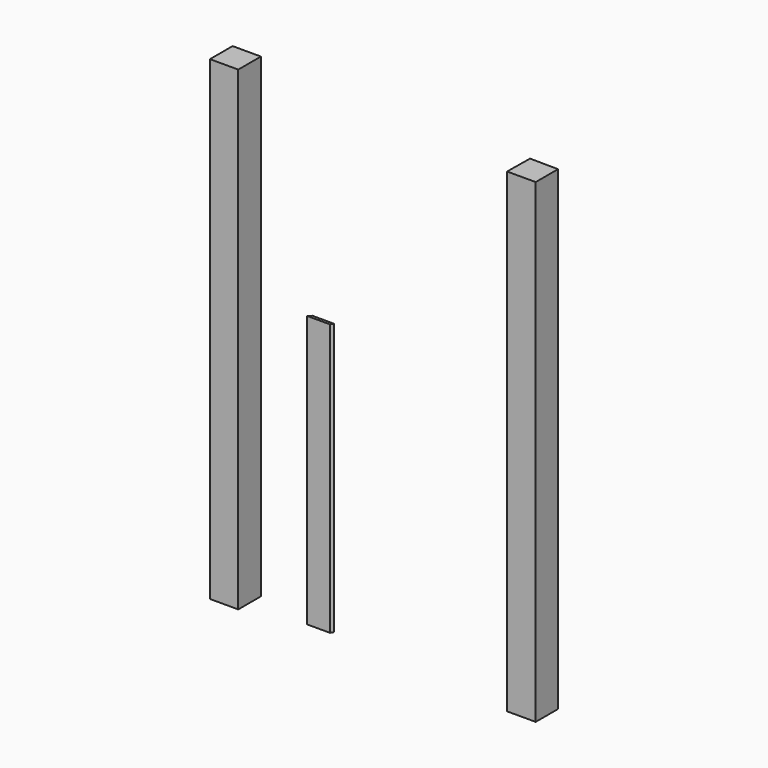
from build123d import *

# Parameters (mm, degrees)
F0_W     = 127
F0_H     = 127
F1_DEPTH = 2133.6
F3_DEPTH = 1219.2


with BuildPart() as f1:
    # F0 (on Top) → F1 (new body)
    with BuildSketch(Plane.XY):
        with Locations((10.191282, 63.5)):
            Rectangle(F0_W, F0_H)
        Polygon((1294.398367, 111.587874), (1292.793993, -15.401991), (1421.388232, -15.401991), (1421.388232, 109.9835), align=None)
    extrude(amount=F1_DEPTH)


with BuildPart() as f3:
    # F2 (on Top) → F3 (new body)
    with BuildSketch(Plane.XY):
        Polygon((333.135009, 62.046494), (341.136009, 62.046494), (435.673505, 62.046494), (443.674505, 74.746494), (435.673505, 74.746494), (346.773505, 74.746494), align=None)
    extrude(amount=F3_DEPTH)


solid = Compound([f1.part, f3.part])
